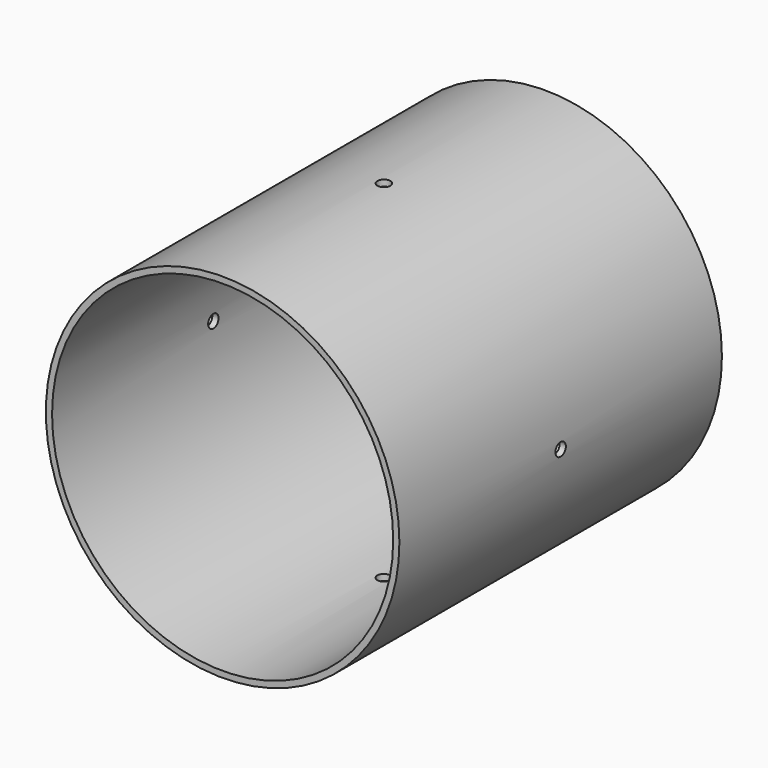
from build123d import *

# Parameters (mm, degrees)
F0_R     = 57
F0_R_2   = 55
F1_DEPTH = 65
F3_R     = 2.1
F4_DEPTH = 70
F5_R     = 2.1
F6_DEPTH = 100


with BuildPart() as f1:
    # F0 (on Front) → F1 (new body, symmetric)
    with BuildSketch(Plane.XZ):
        with Locations((11.197514832, 9.3730366789)):
            Circle(F0_R)
        with Locations((11.197514832, 9.3730366789)):
            Circle(F0_R_2, mode=Mode.SUBTRACT)
    extrude(amount=F1_DEPTH, both=True)

    # F3 (on plane+point) → F4 (cut, symmetric)
    with BuildSketch(Plane.YZ.offset(11.197514832)):
        with Locations((0, 9.3730366789)):
            Circle(F3_R)
    extrude(amount=F4_DEPTH, both=True, mode=Mode.SUBTRACT)

    # F5 (on Top) → F6 (cut, symmetric)
    with BuildSketch(Plane.XY):
        with Locations((11.197514832, 0)):
            Circle(F5_R)
    extrude(amount=F6_DEPTH, both=True, mode=Mode.SUBTRACT)


solid = f1.part
